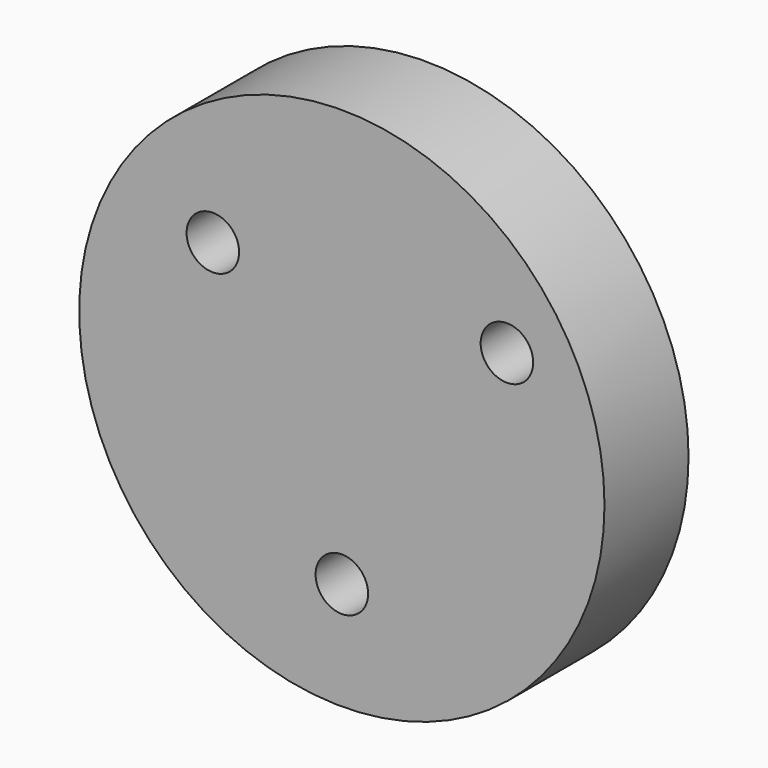
from build123d import *

# Parameters (mm, degrees)
F0_R     = 63.5
F0_R_2   = 6.35
F1_DEPTH = 25.4


with BuildPart() as f1:
    # F0 (on Front) → F1 (new body)
    with BuildSketch(Plane.XZ):
        Circle(F0_R)
        with Locations((0, -37.445437)):
            Circle(F0_R_2, mode=Mode.SUBTRACT)
        with Locations((-31.188734, 25.121626)):
            Circle(F0_R_2, mode=Mode.SUBTRACT)
        with Locations((39.910205, 24.74243)):
            Circle(F0_R_2, mode=Mode.SUBTRACT)
    extrude(amount=F1_DEPTH)


solid = f1.part
